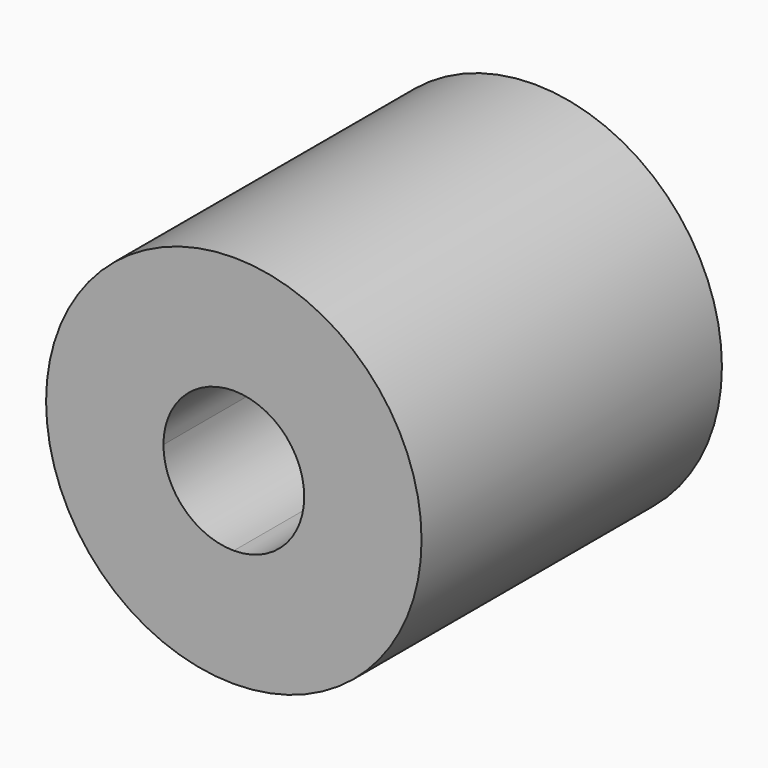
from build123d import *

# Parameters (mm, degrees)
F0_R      = 12.7
F1_DEPTH  = 25.4
F1_FACE_R = 12.7
F3_DEPTH  = 25.4
F4_DEPTH  = 25.401
F5_DEPTH  = 11.0998


with BuildPart() as f1:
    # F0 (on Front) → F1 (new body)
    with BuildSketch(Plane.XZ):
        Circle(F0_R)
    extrude(amount=F1_DEPTH)

    # F1_face (on face) → F3 (cut)
    with BuildSketch(Plane.XZ.offset(25.4)):
        Circle(F1_FACE_R)
    extrude(amount=F3_DEPTH, mode=Mode.SUBTRACT)

    # F2 (on Front) → F4 (cut, through all)
    with BuildSketch(Plane.XZ):
        with BuildLine():
            ThreePointArc((4.7625, 0), (3.367596, 3.367596), (0, 4.7625))
            ThreePointArc((0, 4.7625), (-3.367596, 3.367596), (-4.7625, 0))
            ThreePointArc((-4.7625, 0), (-3.367596, -3.367596), (0, -4.7625))
            ThreePointArc((0, -4.7625), (3.367596, -3.367596), (4.7625, 0))
        make_face()
    extrude(amount=F4_DEPTH, mode=Mode.SUBTRACT)

    # F2 (on Front) → F5 (cut)
    with BuildSketch(Plane.XZ):
        with BuildLine():
            Line((4.7625, 0), (4.7625, 4.7625))
            Line((4.7625, 4.7625), (0, 4.7625))
            ThreePointArc((0, 4.7625), (3.367596, 3.367596), (4.7625, 0))
        make_face()
        with BuildLine():
            ThreePointArc((-4.7625, 0), (-3.367596, 3.367596), (0, 4.7625))
            Line((0, 4.7625), (-4.7625, 4.7625))
            Line((-4.7625, 4.7625), (-4.7625, 0))
        make_face()
        with BuildLine():
            Line((4.7625, -4.7625), (4.7625, 0))
            ThreePointArc((4.7625, 0), (3.367596, -3.367596), (0, -4.7625))
            Line((0, -4.7625), (4.7625, -4.7625))
        make_face()
        with BuildLine():
            ThreePointArc((0, -4.7625), (-3.367596, -3.367596), (-4.7625, 0))
            Line((-4.7625, 0), (-4.7625, -4.7625))
            Line((-4.7625, -4.7625), (0, -4.7625))
        make_face()
    extrude(amount=F5_DEPTH, mode=Mode.SUBTRACT)


solid = f1.part
